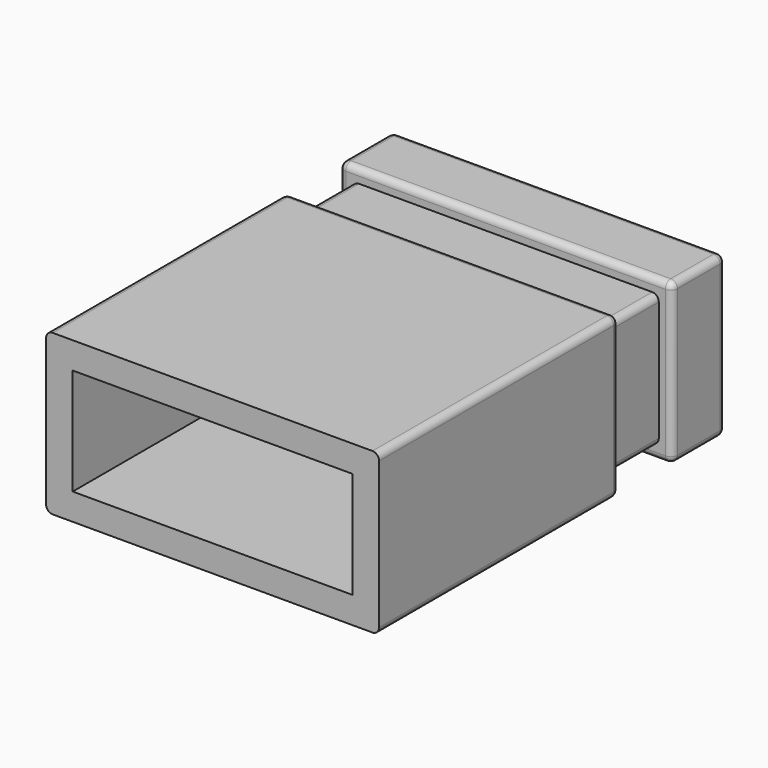
from build123d import *

# Parameters (mm, degrees)
SKETCH_W     = 5
SKETCH_H     = 2.4
PAD_DEPTH    = 4.5
SKETCH001_W  = 4.6
SKETCH001_H  = 2
PAD001_DEPTH = 1
SKETCH002_W  = 5
SKETCH002_H  = 2.4
PAD002_DEPTH = 1
FILLET_R     = 0.1
FILLET001_R  = 0.1
FILLET002_R  = 0.1
SKETCH003_W  = 4.2
SKETCH003_H  = 1.6
POCKET_DEPTH = 6


with BuildPart() as part:
    # Sketch → Pad (new body)
    with BuildSketch(Plane.XZ):
        Rectangle(SKETCH_W, SKETCH_H)
    extrude(amount=-PAD_DEPTH)

    # Sketch001 (on Face6 of Pad) → Pad001 (join)
    with BuildSketch(Plane(origin=(0, 4.5, 0), x_dir=(1, 0, 0), z_dir=(0, 1, 0))):
        Rectangle(SKETCH001_W, SKETCH001_H)
    extrude(amount=PAD001_DEPTH)

    # Sketch002 (on Face11 of Pad001) → Pad002 (join)
    with BuildSketch(Plane(origin=(0, 5.5, 0), x_dir=(1, 0, 0), z_dir=(0, 1, 0))):
        Rectangle(SKETCH002_W, SKETCH002_H)
    extrude(amount=PAD002_DEPTH)

    # Fillet
    fillet_edges = [part.edges().sort_by_distance(p)[0] for p in [
        (2.5, 2.25, 1.2),
        (-2.5, 2.25, 1.2),
        (-2.5, 6, 1.2),
        (2.5, 6, 1.2),
        (2.5, 6, -1.2),
        (2.5, 2.25, -1.2),
        (-2.3, 5, 1),
        (2.3, 5, 1),
        (2.3, 5, -1),
        (-2.5, 2.25, -1.2),
        (-2.5, 6, -1.2),
        (-2.3, 5, -1),
    ]]
    fillet(fillet_edges, radius=FILLET_R)

    # Fillet001
    fillet001_edges = [part.edges().sort_by_distance(p)[0] for p in [
        (0, 6.5, -1.2),
        (2.5, 6.5, 0),
        (0, 6.5, 1.2),
        (-2.5, 6.5, 0),
    ]]
    fillet(fillet001_edges, radius=FILLET001_R)

    # Fillet002
    fillet002_edges = [part.edges().sort_by_distance(p)[0] for p in [
        (0, 5.5, -1.2),
        (0, 4.5, -1.2),
        (-2.5, 4.5, 0),
        (-2.5, 5.5, 0),
        (0, 4.5, 1.2),
        (2.5, 4.5, 0),
        (0, 5.5, 1.2),
        (2.5, 5.5, 0),
    ]]
    fillet(fillet002_edges, radius=FILLET002_R)

    # Sketch003 (on Face49 of Fillet002) → Pocket (cut)
    with BuildSketch(Plane.XZ):
        Rectangle(SKETCH003_W, SKETCH003_H)
    extrude(amount=-POCKET_DEPTH, mode=Mode.SUBTRACT)


solid = part.part
